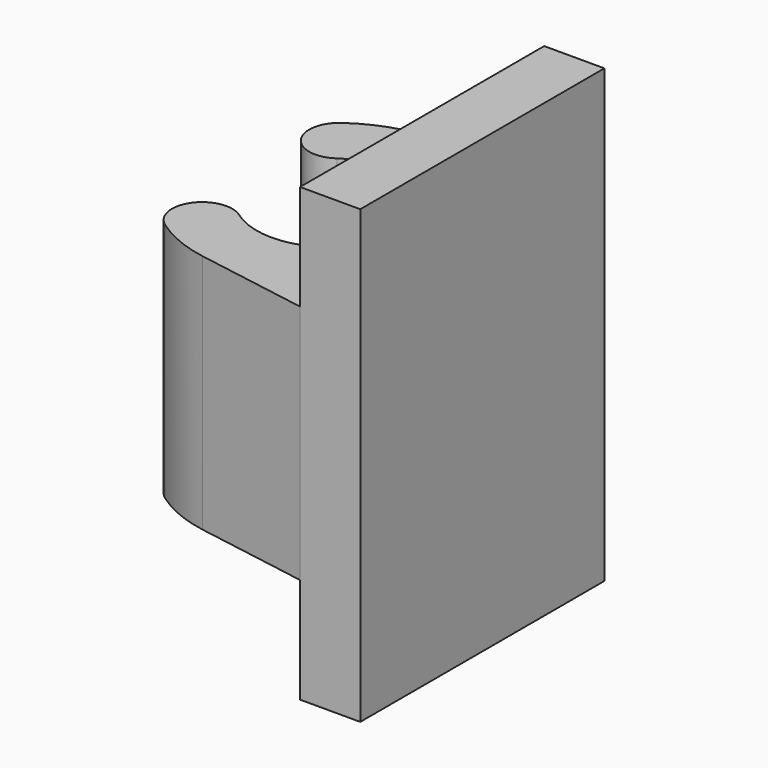
from build123d import *

# Parameters (mm, degrees)
F1_DEPTH = 8
F2_W     = 10.141368
F2_H     = 15
F3_DEPTH = 2


with BuildPart() as f1:
    # F0 (on Top) → F1 (new body)
    with BuildSketch(Plane.XY):
        with BuildLine():
            ThreePointArc((-4.451161, 2.035714), (-0.5, 0), (-4.451161, -2.035714))
            ThreePointArc((-4.451161, -2.035714), (-5.845911, -2.269536), (-5.612089, -3.664286))
            ThreePointArc((-5.612089, -3.664286), (-4.724749, -4.15635), (-3.749722, -4.437107))
            Line((-3.749722, -4.437107), (0, -5.070684))
            Line((0, -5.070684), (0, 5.070684))
            Line((0, 5.070684), (-3.749722, 4.437107))
            ThreePointArc((-3.749722, 4.437107), (-4.724749, 4.15635), (-5.612089, 3.664286))
            ThreePointArc((-5.612089, 3.664286), (-5.845911, 2.269536), (-4.451161, 2.035714))
        make_face()
    extrude(amount=F1_DEPTH)

    # F2 (on face) → F3 (join)
    with BuildSketch(Plane.YZ):
        with Locations((0, 4)):
            Rectangle(F2_W, F2_H)
    extrude(amount=F3_DEPTH)


solid = f1.part
